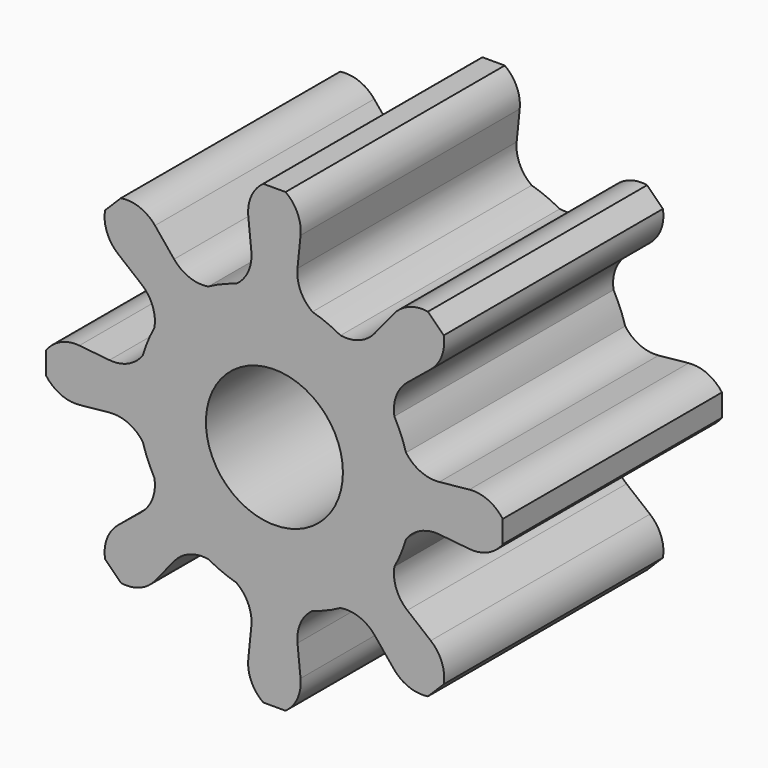
from build123d import *

# Parameters (mm, degrees)
F1_DEPTH = 30
F2_R     = 7.5
F3_DEPTH = 30.001


with BuildPart() as f1:
    # F0 (on Front) → F1 (new body)
    with BuildSketch(Plane.XZ):
        with BuildLine():
            ThreePointArc((-14.555619, 10.982389), (-13.34453, 9.30297), (-13.135405, 7.243005))
            ThreePointArc((-13.135405, 7.243005), (-13.858193, 5.740251), (-14.409712, 4.166556))
            ThreePointArc((-14.409712, 4.166556), (-16.0142, 2.857814), (-18.058099, 2.526655))
            Line((-18.058099, 2.526655), (-21.351614, 2.861007))
            ThreePointArc((-21.351614, 2.861007), (-23.395512, 2.529847), (-25, 1.221105))
            Line((-25, 1.221105), (-25, -1.221105))
            ThreePointArc((-25, -1.221105), (-23.395512, -2.529847), (-21.351614, -2.861007))
            Line((-21.351614, -2.861007), (-18.058099, -2.526655))
            ThreePointArc((-18.058099, -2.526655), (-16.0142, -2.857814), (-14.409712, -4.166556))
            ThreePointArc((-14.409712, -4.166556), (-13.858193, -5.740251), (-13.135405, -7.243005))
            ThreePointArc((-13.135405, -7.243005), (-13.34453, -9.30297), (-14.555619, -10.982389))
            Line((-14.555619, -10.982389), (-17.120908, -13.074834))
            ThreePointArc((-17.120908, -13.074834), (-18.331997, -14.754253), (-18.541121, -16.814218))
            Line((-18.541121, -16.814218), (-16.814218, -18.541121))
            ThreePointArc((-16.814218, -18.541121), (-14.754253, -18.331997), (-13.074834, -17.120908))
            Line((-13.074834, -17.120908), (-10.982389, -14.555619))
            ThreePointArc((-10.982389, -14.555619), (-9.30297, -13.34453), (-7.243005, -13.135405))
            ThreePointArc((-7.243005, -13.135405), (-5.740251, -13.858193), (-4.166556, -14.409712))
            ThreePointArc((-4.166556, -14.409712), (-2.857814, -16.0142), (-2.526655, -18.058099))
            Line((-2.526655, -18.058099), (-2.861007, -21.351614))
            ThreePointArc((-2.861007, -21.351614), (-2.529847, -23.395512), (-1.221105, -25))
            Line((-1.221105, -25), (1.221105, -25))
            ThreePointArc((1.221105, -25), (2.529847, -23.395512), (2.861007, -21.351614))
            Line((2.861007, -21.351614), (2.526655, -18.058099))
            ThreePointArc((2.526655, -18.058099), (2.857814, -16.0142), (4.166556, -14.409712))
            ThreePointArc((4.166556, -14.409712), (5.740251, -13.858193), (7.243005, -13.135405))
            ThreePointArc((7.243005, -13.135405), (9.30297, -13.34453), (10.982389, -14.555619))
            Line((10.982389, -14.555619), (13.074834, -17.120908))
            ThreePointArc((13.074834, -17.120908), (14.754253, -18.331997), (16.814218, -18.541121))
            Line((16.814218, -18.541121), (18.541121, -16.814218))
            ThreePointArc((18.541121, -16.814218), (18.331997, -14.754253), (17.120908, -13.074834))
            Line((17.120908, -13.074834), (14.555619, -10.982389))
            ThreePointArc((14.555619, -10.982389), (13.34453, -9.30297), (13.135405, -7.243005))
            ThreePointArc((13.135405, -7.243005), (13.858193, -5.740251), (14.409712, -4.166556))
            ThreePointArc((14.409712, -4.166556), (16.0142, -2.857814), (18.058099, -2.526655))
            Line((18.058099, -2.526655), (21.351614, -2.861007))
            ThreePointArc((21.351614, -2.861007), (23.395512, -2.529847), (25, -1.221105))
            Line((25, -1.221105), (25, 1.221105))
            ThreePointArc((25, 1.221105), (23.395512, 2.529847), (21.351614, 2.861007))
            Line((21.351614, 2.861007), (18.058099, 2.526655))
            ThreePointArc((18.058099, 2.526655), (16.0142, 2.857814), (14.409712, 4.166556))
            ThreePointArc((14.409712, 4.166556), (13.858193, 5.740251), (13.135405, 7.243005))
            ThreePointArc((13.135405, 7.243005), (13.34453, 9.30297), (14.555619, 10.982389))
            Line((14.555619, 10.982389), (17.120908, 13.074834))
            ThreePointArc((17.120908, 13.074834), (18.331997, 14.754253), (18.541121, 16.814218))
            Line((18.541121, 16.814218), (16.814218, 18.541121))
            ThreePointArc((16.814218, 18.541121), (14.754253, 18.331997), (13.074834, 17.120908))
            Line((13.074834, 17.120908), (10.982389, 14.555619))
            ThreePointArc((10.982389, 14.555619), (9.30297, 13.34453), (7.243005, 13.135405))
            ThreePointArc((7.243005, 13.135405), (5.740251, 13.858193), (4.166556, 14.409712))
            ThreePointArc((4.166556, 14.409712), (2.857814, 16.0142), (2.526655, 18.058099))
            Line((2.526655, 18.058099), (2.861007, 21.351614))
            ThreePointArc((2.861007, 21.351614), (2.529847, 23.395512), (1.221105, 25))
            Line((1.221105, 25), (-1.221105, 25))
            ThreePointArc((-1.221105, 25), (-2.529847, 23.395512), (-2.861007, 21.351614))
            Line((-2.861007, 21.351614), (-2.526655, 18.058099))
            ThreePointArc((-2.526655, 18.058099), (-2.857814, 16.0142), (-4.166556, 14.409712))
            ThreePointArc((-4.166556, 14.409712), (-5.740251, 13.858193), (-7.243005, 13.135405))
            ThreePointArc((-7.243005, 13.135405), (-9.30297, 13.34453), (-10.982389, 14.555619))
            Line((-10.982389, 14.555619), (-13.074834, 17.120908))
            ThreePointArc((-13.074834, 17.120908), (-14.754253, 18.331997), (-16.814218, 18.541121))
            Line((-16.814218, 18.541121), (-18.541121, 16.814218))
            ThreePointArc((-18.541121, 16.814218), (-18.331997, 14.754253), (-17.120908, 13.074834))
            Line((-17.120908, 13.074834), (-14.555619, 10.982389))
        make_face()
    extrude(amount=F1_DEPTH)

    # F2 (on face) → F3 (cut, through all)
    with BuildSketch(Plane.XZ.offset(30)):
        Circle(F2_R)
    extrude(amount=-F3_DEPTH, mode=Mode.SUBTRACT)


solid = f1.part
